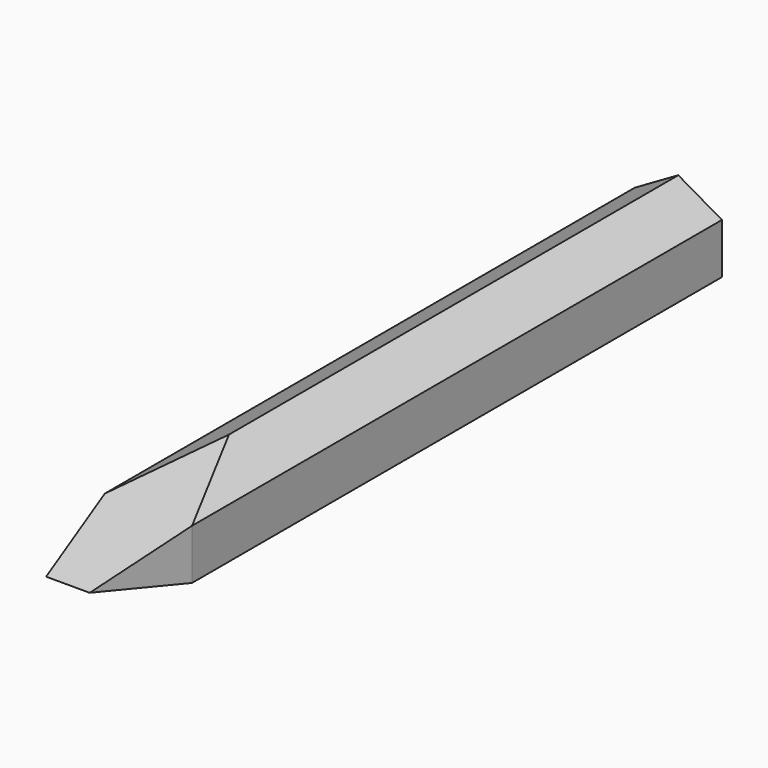
from build123d import *

# Parameters (mm, degrees)
F1_DEPTH      = 35
F3_DEPTH      = 4.001
F5_DEPTH      = 2.3104010768
F5_DEPTH_BACK = 2.3104010768


with BuildPart() as f1:
    # F0 (on Front) → F1 (new body)
    with BuildSketch(Plane.XZ):
        Polygon((-6.6223553988, -1.1547005384), (-6.6223553988, 1.1547005384), (-8.6223553988, 2.3094010768), (-10.6223553988, 1.1547005384), (-10.6223553988, -1.1547005384), (-8.6223553988, -2.3094010768), align=None)
    extrude(amount=F1_DEPTH)

    # F2 (on face) → F3 (cut, through all)
    with BuildSketch(Plane.YZ.offset(-6.6223553988)):
        Polygon((-35, 2.5), (-35, 0), (-25, 2.5), align=None)
        Polygon((-25, -2.5), (-35, 0), (-35, -2.5), align=None)
    extrude(amount=-F3_DEPTH, mode=Mode.SUBTRACT)

    # F4 (on Top) → F5 (cut, two sides)
    with BuildSketch(Plane.XY) as f5_sk:
        Polygon((-6.6223553988, -35), (-6.6223553988, -30.3811978465), (-7.6223553988, -35), align=None)
        Polygon((-10.6223553988, -35), (-9.6223553988, -35), (-10.6223553988, -30.3811978465), align=None)
    extrude(amount=-F5_DEPTH, mode=Mode.SUBTRACT)
    extrude(f5_sk.sketch, amount=F5_DEPTH_BACK, mode=Mode.SUBTRACT)


solid = f1.part
